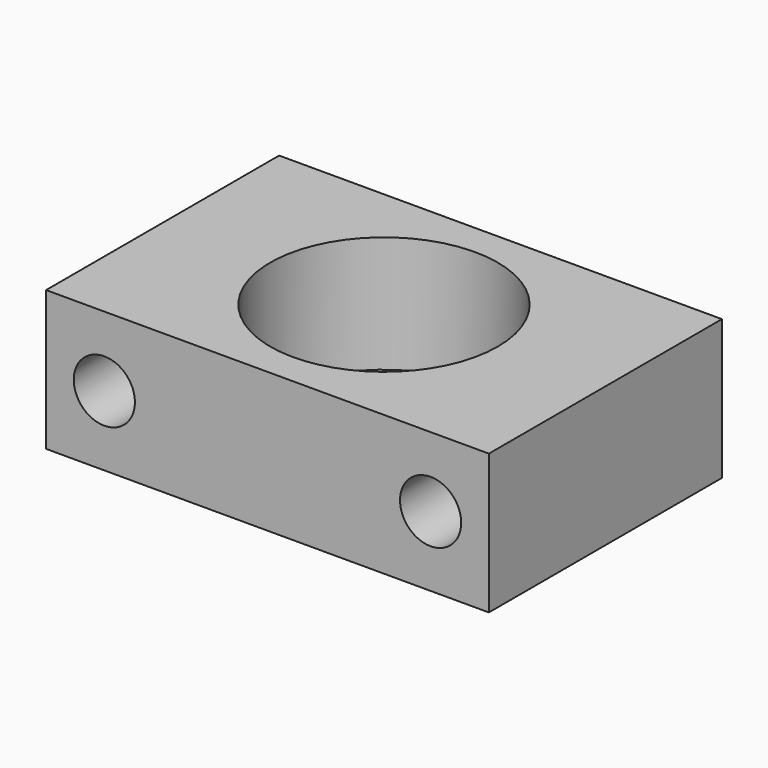
from build123d import *

# Parameters (mm, degrees)
F0_W     = 120.65
F0_H     = 38.1
F1_DEPTH = 79.375
F2_R     = 31.0007
F3_DEPTH = 38.101
F4_R     = 31.0007
F4_R_2   = 27.8257
F5_DEPTH = 6.35
F6_R     = 8.334375
F7_DEPTH = 79.376


with BuildPart() as f1:
    # F0 (on Front) → F1 (new body)
    with BuildSketch(Plane.XZ):
        with Locations((60.325, 19.05)):
            Rectangle(F0_W, F0_H)
    extrude(amount=F1_DEPTH)

    # F2 (on face) → F3 (cut, through all)
    with BuildSketch(Plane.XY.offset(38.1)):
        with Locations((60.325, -39.6875)):
            Circle(F2_R)
    extrude(amount=-F3_DEPTH, mode=Mode.SUBTRACT)

    # F4 (on face) → F5 (join)
    with BuildSketch(Plane(origin=(0, 0, 0), x_dir=(1, 0, 0), z_dir=(0, 0, -1))):
        with Locations((60.325, 39.6875)):
            Circle(F4_R)
        with Locations((60.325, 39.6875)):
            Circle(F4_R_2, mode=Mode.SUBTRACT)
    extrude(amount=-F5_DEPTH)

    # F6 (on face) → F7 (cut, through all)
    with BuildSketch(Plane.XZ.offset(79.375)):
        with Locations((15.875, 19.05)):
            Circle(F6_R)
        with Locations((104.775, 19.05)):
            Circle(F6_R)
    extrude(amount=-F7_DEPTH, mode=Mode.SUBTRACT)


solid = f1.part
